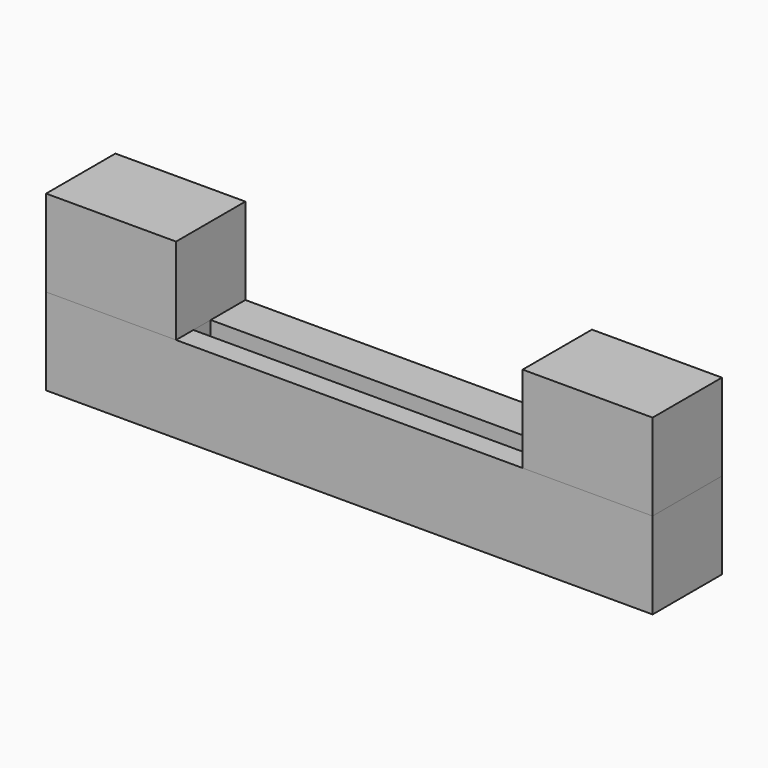
from build123d import *

# Parameters (mm, degrees)
F0_W     = 177.8
F0_H     = 25.4
F1_DEPTH = 25.4
F2_W     = 38.1
F2_H     = 25.4
F3_DEPTH = 25.4
F5_W     = 101.6
F5_H     = 6.35
F6_DEPTH = 12.7


with BuildPart() as f1:
    # F0 (on Top) → F1 (new body)
    with BuildSketch(Plane.XY):
        Rectangle(F0_W, F0_H)
    extrude(amount=F1_DEPTH)

    # F5 (on face) → F6 (cut)
    with BuildSketch(Plane.XY.offset(25.4)):
        with Locations((0, -3.175)):
            Rectangle(F5_W, F5_H)
    extrude(amount=-F6_DEPTH, mode=Mode.SUBTRACT)


with BuildPart() as f3:
    # F2 (on face) → F3 (new body)
    with BuildSketch(Plane.XY.offset(25.4)):
        with Locations((-69.85, 0)):
            Rectangle(F2_W, F2_H)
    extrude(amount=F3_DEPTH)


with BuildPart() as f4_1:
    # F4: instance of F3
    add(f3.part.mirror(Plane.YZ))


solid = Compound([f1.part, f3.part, f4_1.part])
